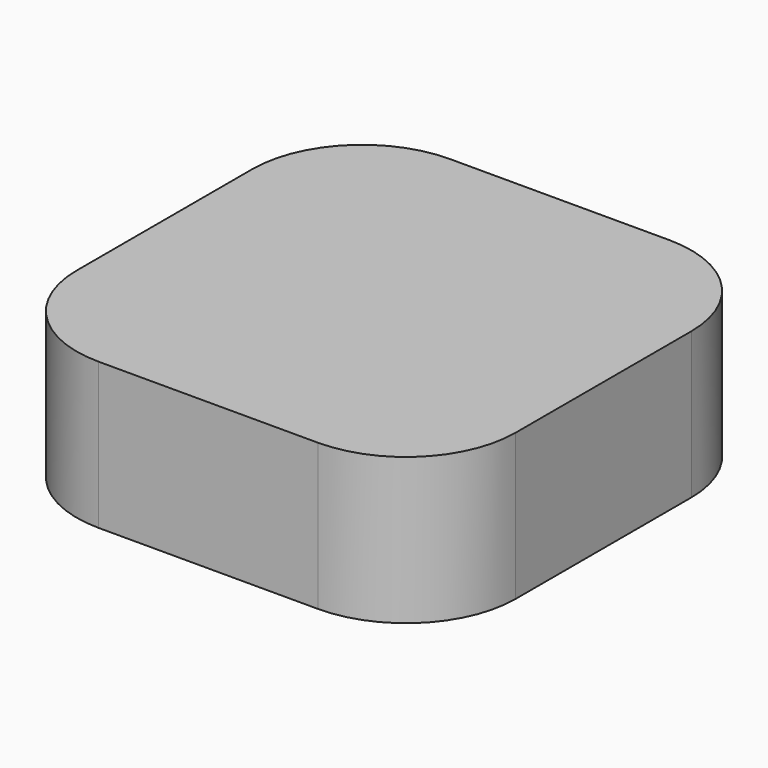
from build123d import *

# Parameters (mm, degrees)
F0_W     = 12
F0_H     = 12
F1_DEPTH = 4
F2_D     = 4
F2_DEPTH = 2
F2_TIP   = 1.2017212381
F3_R     = 3


with BuildPart() as f1:
    # F0 (on Top) → F1 (new body)
    with BuildSketch(Plane.XY):
        Rectangle(F0_W, F0_H)
    extrude(amount=F1_DEPTH)

    # F2
    with Locations(Plane(origin=(0, 0, 0), x_dir=(1, 0, 0), z_dir=(0, 0, -1))):
        with Locations((0, 0)):
            Hole(F2_D / 2, depth=F2_DEPTH)
            with Locations((0, 0, -(F2_DEPTH + F2_TIP / 2))):  # 118° drill point
                Cone(0, F2_D / 2, F2_TIP, mode=Mode.SUBTRACT)

    # F3
    f3_edges = [f1.edges().sort_by_distance(p)[0] for p in [
        (6, 6, 2),
        (-6, 6, 2),
        (-6, -6, 2),
        (6, -6, 2),
    ]]
    fillet(f3_edges, radius=F3_R)


solid = f1.part
